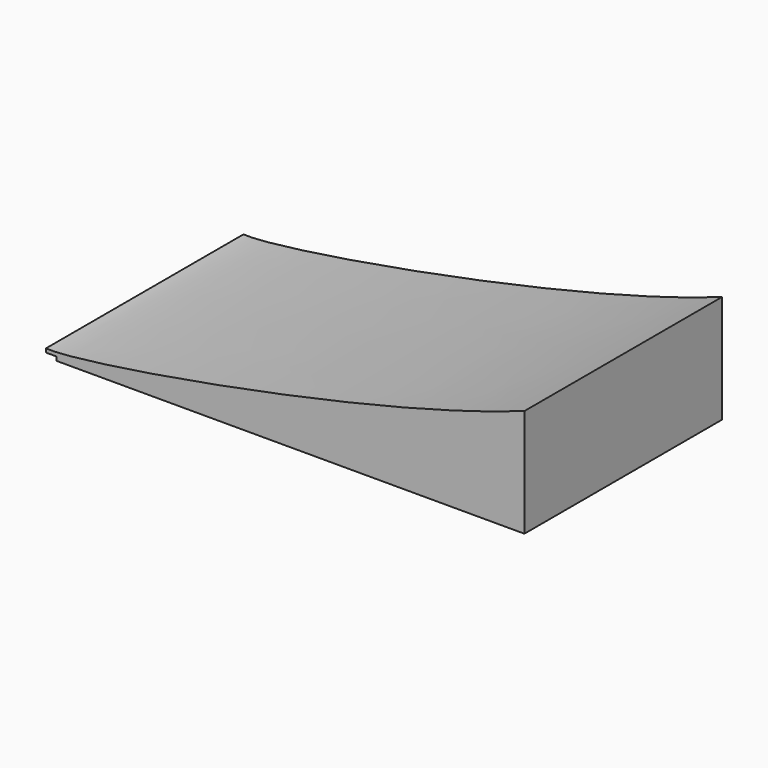
from build123d import *

# Parameters (mm, degrees)
F1_DEPTH = 1219.2
F2_T     = -19.05


with BuildPart() as f1:
    # F0 (on Front) → F1 (new body)
    with BuildSketch(Plane.XZ):
        with BuildLine():
            Line((-2311.4, 0), (0, 0))
            Line((0, 0), (0, 533.4))
            add(Edge.make_bspline(
                [(0, 533.4), (-762.4312639236, 258.6072385311), (-2189.4609928131, 19.05), (-2362.2, 38.1)],
                knots=[0, 0, 0, 0, 2413.5680910221, 2413.5680910221, 2413.5680910221, 2413.5680910221], degree=3))
            Line((-2362.2, 38.1), (-2362.2, 19.05))
            Line((-2362.2, 19.05), (-2311.4, 19.05))
            Line((-2311.4, 19.05), (-2311.4, 0))
        make_face()
    extrude(amount=F1_DEPTH)

    # F2
    f2_openings = [f1.faces().sort_by_distance(p)[0] for p in [
        (-1155.7, -609.6, 0),
    ]]
    offset(amount=F2_T, openings=f2_openings, kind=Kind.INTERSECTION)


solid = f1.part
